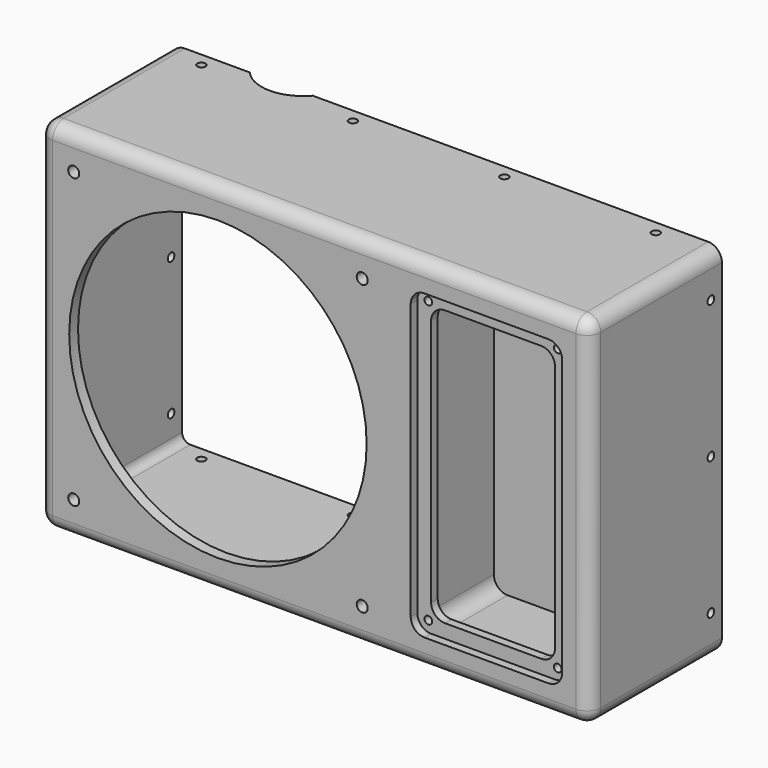
from build123d import *

# Parameters (mm, degrees)
CYLINDER010_R           = 15.2
CYLINDER010_DEPTH       = 28
CYLINDER008_R           = 1.5
CYLINDER008_DEPTH       = 210
CYLINDER008_PITCH_ANGLE = 90
CYLINDER009_R           = 1.5
CYLINDER009_DEPTH       = 210
CYLINDER009_PITCH_ANGLE = 90
CYLINDER007_R           = 1.5
CYLINDER007_DEPTH       = 210
CYLINDER007_PITCH_ANGLE = 90
CYLINDER004_R           = 1.5
CYLINDER004_DEPTH       = 140
CYLINDER006_R           = 1.5
CYLINDER006_DEPTH       = 140
CYLINDER005_R           = 1.5
CYLINDER005_DEPTH       = 140
CYLINDER003_R           = 1.5
CYLINDER003_DEPTH       = 140
SKETCH002_R             = 1.4
PAD002_DEPTH            = 25
SKETCH001_R             = 54
SKETCH001_R_2           = 2
PAD001_DEPTH            = 100
CYLINDER_R              = 2
CYLINDER_DEPTH          = 30
CYLINDER_PITCH_ANGLE    = 90
BOX008_W                = 192
BOX008_H                = 50
BOX008_DEPTH            = 122
BOX006_W                = 122
BOX006_H                = 50
BOX006_DEPTH            = 122
BOX003_W                = 66
BOX003_H                = 38
BOX003_DEPTH            = 122
BOX005_W                = 45
BOX005_H                = 40
BOX005_DEPTH            = 100
BOX004_W                = 55
BOX004_H                = 40
BOX004_DEPTH            = 110
FILLET001_R             = 5
SKETCH_W                = 200
SKETCH_H                = 60
PAD_DEPTH               = 130
FILLET_R                = 5
FILLET002_R             = 5
FILLET003_R             = 3


with BuildPart() as cylinder010:
    # Cylinder010 → Cylinder010 (new body)
    with BuildSketch(Plane(origin=(40, 70, 124), x_dir=(1, 0, 0), z_dir=(0, 0, 1))):
        Circle(CYLINDER010_R)
    extrude(amount=CYLINDER010_DEPTH)


with BuildPart() as cylinder008:
    # Cylinder008 → Cylinder008 (new body)
    with BuildSketch(Plane.XY):
        Circle(CYLINDER008_R)
    extrude(amount=CYLINDER008_DEPTH)


with BuildPart() as cylinder008_1:
    # Cylinder008 pitch: moved
    add(cylinder008.part.rotate(Axis((0, 0, 0), (0, 1, 0)), CYLINDER008_PITCH_ANGLE))


with BuildPart() as cylinder008_2:
    # Cylinder008 placement: moved
    add(cylinder008_1.part.moved(Location((-5, 0, 115))))


with BuildPart() as cylinder009:
    # Cylinder009 → Cylinder009 (new body)
    with BuildSketch(Plane.XY):
        Circle(CYLINDER009_R)
    extrude(amount=CYLINDER009_DEPTH)


with BuildPart() as cylinder009_1:
    # Cylinder009 pitch: moved
    add(cylinder009.part.rotate(Axis((0, 0, 0), (0, 1, 0)), CYLINDER009_PITCH_ANGLE))


with BuildPart() as cylinder009_2:
    # Cylinder009 placement: moved
    add(cylinder009_1.part.moved(Location((-5, 0, 65))))


with BuildPart() as fusion006:
    # Cylinder007 → Cylinder007 (new body)
    with BuildSketch(Plane.XY):
        Circle(CYLINDER007_R)
    extrude(amount=CYLINDER007_DEPTH)


with BuildPart() as fusion006_1:
    # Cylinder007 pitch: moved
    add(fusion006.part.rotate(Axis((0, 0, 0), (0, 1, 0)), CYLINDER007_PITCH_ANGLE))


with BuildPart() as fusion006_2:
    # Cylinder007 placement: moved
    add(fusion006_1.part.moved(Location((-5, 0, 15))))

    # Fusion006: union Cylinder008, Cylinder009
    add(cylinder008_2.part)
    add(cylinder009_2.part)


with BuildPart() as cylinder004:
    # Cylinder004 → Cylinder004 (new body)
    with BuildSketch(Plane(origin=(180, 0, -5), x_dir=(1, 0, 0), z_dir=(0, 0, 1))):
        Circle(CYLINDER004_R)
    extrude(amount=CYLINDER004_DEPTH)


with BuildPart() as cylinder006:
    # Cylinder006 → Cylinder006 (new body)
    with BuildSketch(Plane(origin=(125, 0, -5), x_dir=(1, 0, 0), z_dir=(0, 0, 1))):
        Circle(CYLINDER006_R)
    extrude(amount=CYLINDER006_DEPTH)


with BuildPart() as cylinder005:
    # Cylinder005 → Cylinder005 (new body)
    with BuildSketch(Plane(origin=(70, 0, -5), x_dir=(1, 0, 0), z_dir=(0, 0, 1))):
        Circle(CYLINDER005_R)
    extrude(amount=CYLINDER005_DEPTH)


with BuildPart() as fusion007:
    # Cylinder003 → Cylinder003 (new body)
    with BuildSketch(Plane(origin=(15, 0, -5), x_dir=(1, 0, 0), z_dir=(0, 0, 1))):
        Circle(CYLINDER003_R)
    extrude(amount=CYLINDER003_DEPTH)

    # Fusion005: union Cylinder004, Cylinder006, Cylinder005
    add(cylinder004.part)
    add(cylinder006.part)
    add(cylinder005.part)

    # Fusion007: union Fusion006
    add(fusion006_2.part)


with BuildPart() as fusion007_1:
    # Fusion007 placement: moved
    add(fusion007.part.moved(Location((0, 55, 0))))


with BuildPart() as pad002:
    # Sketch002 → Pad002 (new body)
    with BuildSketch(Plane.XZ.offset(10)):
        with Locations((139, 116)):
            Circle(SKETCH002_R)
        with Locations((186, 116)):
            Circle(SKETCH002_R)
        with Locations((139, 14)):
            Circle(SKETCH002_R)
        with Locations((186, 14)):
            Circle(SKETCH002_R)
    extrude(amount=-PAD002_DEPTH)


with BuildPart() as pad001:
    # Sketch001 → Pad001 (new body)
    with BuildSketch(Plane.XZ.offset(50)):
        with Locations((65, 65)):
            Circle(SKETCH001_R)
        with Locations((12.65, 117.4)):
            Circle(SKETCH001_R_2)
        with Locations((117.4, 117.4)):
            Circle(SKETCH001_R_2)
        with Locations((117.4, 12.65)):
            Circle(SKETCH001_R_2)
        with Locations((12.65, 12.65)):
            Circle(SKETCH001_R_2)
    extrude(amount=-PAD001_DEPTH)


with BuildPart() as cylinder:
    # Cylinder → Cylinder (new body)
    with BuildSketch(Plane.XY):
        Circle(CYLINDER_R)
    extrude(amount=CYLINDER_DEPTH)


with BuildPart() as cylinder_1:
    # Cylinder pitch: moved
    add(cylinder.part.rotate(Axis((0, 0, 0), (0, 1, 0)), CYLINDER_PITCH_ANGLE))


with BuildPart() as cylinder_2:
    # Cylinder placement: moved
    add(cylinder_1.part.moved(Location((120, 35, 110))))


with BuildPart() as cube008:
    # Box008 → Box008 (new body)
    with BuildSketch(Plane(origin=(4, 48, 4), x_dir=(1, 0, 0), z_dir=(0, 0, 1))):
        with Locations((96, 25)):
            Rectangle(BOX008_W, BOX008_H)
    extrude(amount=BOX008_DEPTH)


with BuildPart() as fusion003:
    # Box006 → Box006 (new body)
    with BuildSketch(Plane(origin=(4, 4, 4), x_dir=(1, 0, 0), z_dir=(0, 0, 1))):
        with Locations((61, 25)):
            Rectangle(BOX006_W, BOX006_H)
    extrude(amount=BOX006_DEPTH)

    # Fusion003: union Cube008
    add(cube008.part)


with BuildPart() as cube003:
    # Box003 → Box003 (new body)
    with BuildSketch(Plane(origin=(130, 6, 4), x_dir=(1, 0, 0), z_dir=(0, 0, 1))):
        with Locations((33, 19)):
            Rectangle(BOX003_W, BOX003_H)
    extrude(amount=BOX003_DEPTH)


with BuildPart() as cube005:
    # Box005 → Box005 (new body)
    with BuildSketch(Plane(origin=(140, -15, 15), x_dir=(1, 0, 0), z_dir=(0, 0, 1))):
        with Locations((22.5, 20)):
            Rectangle(BOX005_W, BOX005_H)
    extrude(amount=BOX005_DEPTH)


with BuildPart() as fusion002:
    # Box004 → Box004 (new body)
    with BuildSketch(Plane(origin=(135, -37, 10), x_dir=(1, 0, 0), z_dir=(0, 0, 1))):
        with Locations((27.5, 20)):
            Rectangle(BOX004_W, BOX004_H)
    extrude(amount=BOX004_DEPTH)

    # Fillet001
    fillet001_edges = [fusion002.edges().sort_by_distance(p)[0] for p in [
        (135, -17, 120),
        (135, -17, 10),
        (190, -17, 120),
        (190, -17, 10),
    ]]
    fillet(fillet001_edges, radius=FILLET001_R)

    # Fusion002: union Cube005
    add(cube005.part)


with BuildPart() as cut011:
    # Sketch → Pad (new body)
    with BuildSketch(Plane.XY):
        with Locations((100, 30)):
            Rectangle(SKETCH_W, SKETCH_H)
    extrude(amount=PAD_DEPTH)

    # Cut: cut Fusion002
    add(fusion002.part, mode=Mode.SUBTRACT)

    # Cut001: cut Cube003
    add(cube003.part, mode=Mode.SUBTRACT)

    # Fillet
    fillet_edges = [cut011.edges().sort_by_distance(p)[0] for p in [
        (140, 4.5, 115),
        (185, 4.5, 115),
        (185, 4.5, 15),
        (140, 4.5, 15),
    ]]
    fillet(fillet_edges, radius=FILLET_R)

    # Fillet002
    fillet002_edges = [cut011.edges().sort_by_distance(p)[0] for p in [
        (0, 0, 65),
        (100, 0, 0),
        (100, 0, 130),
        (200, 0, 65),
        (130, 25, 4),
        (196, 25, 4),
        (196, 25, 126),
        (130, 25, 126),
        (0, 30, 0),
        (0, 30, 130),
        (200, 30, 0),
        (200, 30, 130),
    ]]
    fillet(fillet002_edges, radius=FILLET002_R)

    # Cut002: cut Fusion003
    add(fusion003.part, mode=Mode.SUBTRACT)

    # Cut003: cut Cylinder
    add(cylinder_2.part, mode=Mode.SUBTRACT)

    # Fillet003
    fillet003_edges = [cut011.edges().sort_by_distance(p)[0] for p in [
        (126, 26, 126),
        (126, 26, 4),
        (4, 32, 126),
        (4, 32, 4),
    ]]
    fillet(fillet003_edges, radius=FILLET003_R)

    # Cut004: cut Pad001
    add(pad001.part, mode=Mode.SUBTRACT)

    # Cut005: cut Pad002
    add(pad002.part, mode=Mode.SUBTRACT)

    # Cut007: cut Fusion007
    add(fusion007_1.part, mode=Mode.SUBTRACT)

    # Cut011: cut Cylinder010
    add(cylinder010.part, mode=Mode.SUBTRACT)


solid = cut011.part
